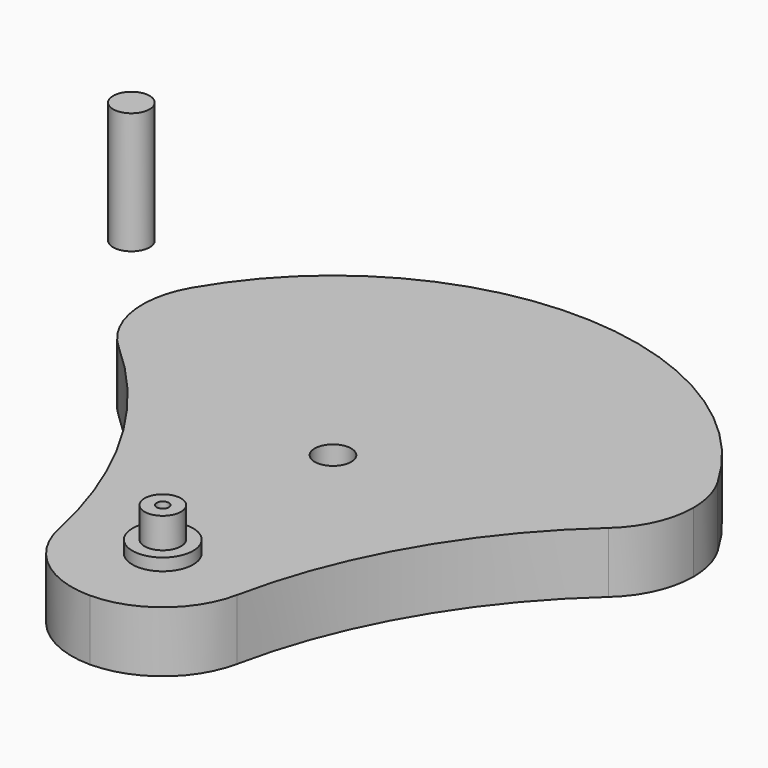
from build123d import *

# Parameters (mm, degrees)
F0_R     = 3
F0_R_2   = 5
F1_DEPTH = 10
F2_DEPTH = 12
F3_DEPTH = 17
F4_R     = 1
F5_DEPTH = 15
F6_DEPTH = 20


with BuildPart() as f1:
    # F0 (on Top) → F1 (new body)
    with BuildSketch(Plane.XY):
        with BuildLine():
            ThreePointArc((40.291671, 6.302501), (15.50151, 19.883757), (43.30127, 25))
            ThreePointArc((43.30127, 25), (0, 50), (-43.30127, 25))
            ThreePointArc((-43.30127, 25), (-26.428604, 31.988887), (-15.310889, 17.5))
            ThreePointArc((-15.310889, 17.5), (-24.175408, 3.8122), (-40.291671, 6.302501))
            ThreePointArc((-40.291671, 6.302501), (-23.920556, -13.81054), (-14.68771, -38.044861))
            ThreePointArc((-14.68771, -38.044861), (-1.530417, -20.078277), (15, -35))
            ThreePointArc((15, -35), (14.921723, -36.530417), (14.68771, -38.044861))
            ThreePointArc((14.68771, -38.044861), (23.920556, -13.81054), (40.291671, 6.302501))
        make_face()
        Circle(F0_R, mode=Mode.SUBTRACT)
        with BuildLine():
            ThreePointArc((-15.310889, 17.5), (-26.428604, 31.988887), (-43.30127, 25))
            ThreePointArc((-43.30127, 25), (-45.120268, 15.116243), (-40.291671, 6.302501))
            ThreePointArc((-40.291671, 6.302501), (-24.175408, 3.8122), (-15.310889, 17.5))
        make_face()
        with BuildLine():
            ThreePointArc((45.310889, 17.5), (44.799777, 21.382285), (43.30127, 25))
            ThreePointArc((43.30127, 25), (15.50151, 19.883757), (40.291671, 6.302501))
            ThreePointArc((40.291671, 6.302501), (43.998689, 11.364518), (45.310889, 17.5))
        make_face()
        with BuildLine():
            ThreePointArc((-14.68771, -38.044861), (-9.469083, -46.63342), (0, -50))
            ThreePointArc((0, -50), (9.469083, -46.63342), (14.68771, -38.044861))
            ThreePointArc((14.68771, -38.044861), (14.921723, -36.530417), (15, -35))
            ThreePointArc((15, -35), (-1.530417, -20.078277), (-14.68771, -38.044861))
        make_face()
        with Locations((0, -35)):
            Circle(F0_R_2, mode=Mode.SUBTRACT)
    extrude(amount=F1_DEPTH)

    # F0 (on Top) → F2 (join)
    with BuildSketch(Plane.XY):
        with Locations((0, -35)):
            Circle(F0_R_2)
        with Locations((0, -35)):
            Circle(F0_R, mode=Mode.SUBTRACT)
    extrude(amount=F2_DEPTH)

    # F0 (on Top) → F3 (join)
    with BuildSketch(Plane.XY):
        with Locations((0, -35)):
            Circle(F0_R)
    extrude(amount=F3_DEPTH)

    # F4 (on face) → F5 (cut)
    with BuildSketch(Plane.XY.offset(17)):
        with Locations((0, -35)):
            Circle(F4_R)
    extrude(amount=-F5_DEPTH, mode=Mode.SUBTRACT)


with BuildPart() as f6:
    # F0 (on Top) → F6 (new body)
    with BuildSketch(Plane.XY):
        with Locations((-69.51274, 45.439869)):
            Circle(F0_R)
    extrude(amount=F6_DEPTH)


solid = Compound([f1.part, f6.part])
